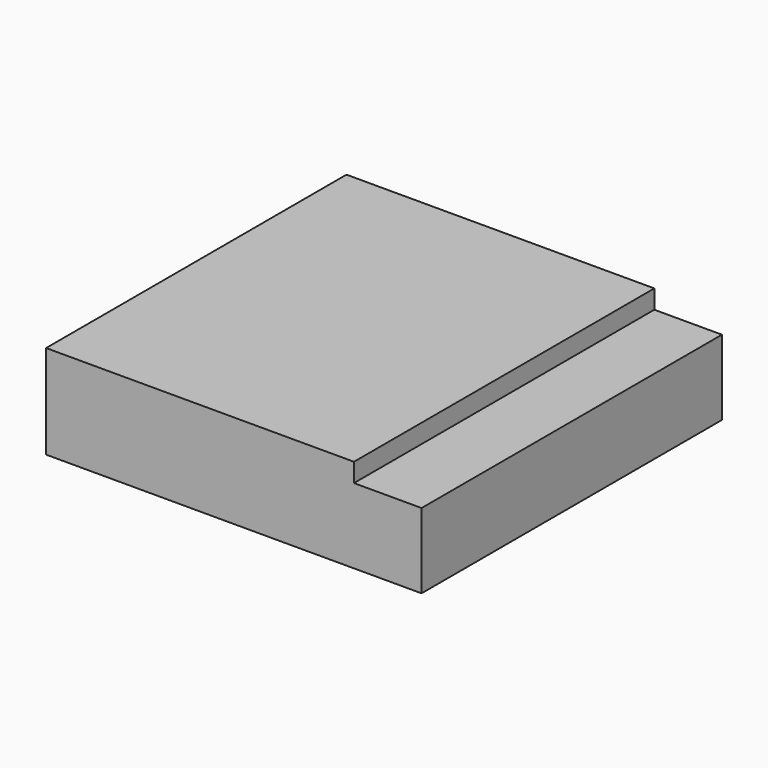
from build123d import *

# Parameters (mm, degrees)
SKETCH_W     = 10
SKETCH_H     = 10
PAD_DEPTH    = 2
SKETCH001_W  = 8.2
SKETCH001_H  = 10
PAD001_DEPTH = 0.5


with BuildPart() as part:
    # Sketch → Pad (new body)
    with BuildSketch(Plane.XY):
        Rectangle(SKETCH_W, SKETCH_H)
    extrude(amount=PAD_DEPTH)

    # Sketch001 (on Face6 of Pad) → Pad001 (join)
    with BuildSketch(Plane.XY.offset(2)):
        with Locations((-0.9, 0)):
            Rectangle(SKETCH001_W, SKETCH001_H)
    extrude(amount=PAD001_DEPTH)


solid = part.part
